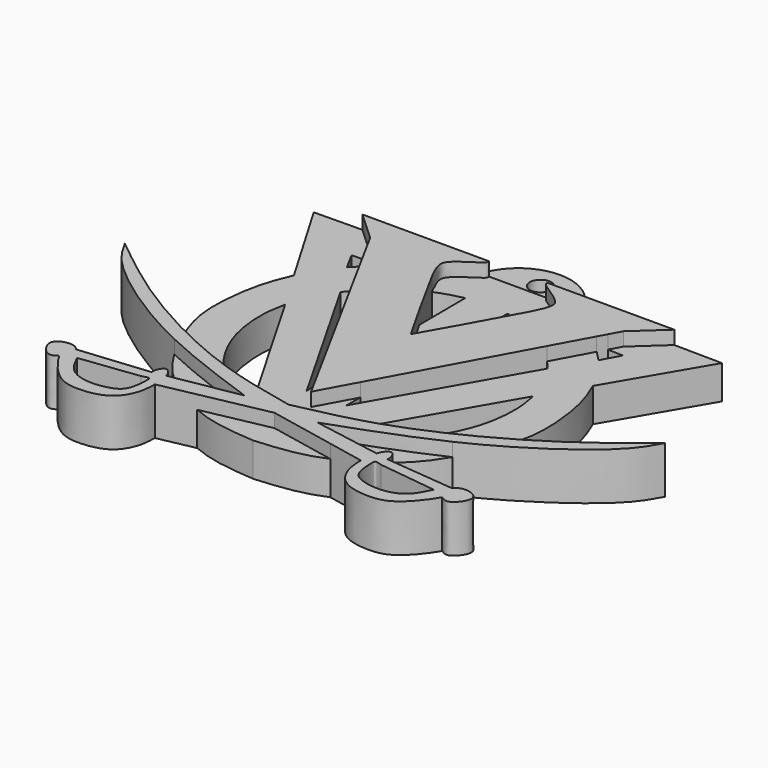
from build123d import *

# Parameters (mm, degrees)
F1_DEPTH = 7
F2_DEPTH = 5
F0_R     = 1.5875
F4_DEPTH = 3.5


with BuildPart() as f1:
    # F0 (on Top) → F1 (new body)
    with BuildSketch(Plane.XY):
        with BuildLine():
            Line((-9.8212097116, 10.4955457838), (-25.2164416015, 10.4955457838))
            Line((-25.2164416015, 10.4955457838), (-20.8612158895, 6.5103424713))
            Line((-20.8612158895, 6.5103424713), (-19.9256264635, 4.7948250641))
            Line((-19.9256264635, 4.7948250641), (-18.0247481912, 4.8423469998))
            Line((-18.0247481912, 4.8423469998), (-19.2591881553, 3.572829083))
            Line((-19.2591881553, 3.572829083), (-16.2846510978, -1.8813476733))
            add(Edge.make_bspline(
                [(-9.2160156942, 3.3641833615), (-10.5381233415, 2.8202589344), (-13.2069103444, 1.3493856489), (-15.236367988, -0.6858094985), (-16.2846510978, -1.8813476733)],
                knots=[0.2519653622, 0.2519653622, 0.2519653622, 0.2519653622, 0.5271052511, 0.8701034634, 0.8701034634, 0.8701034634, 0.8701034634], degree=3))
            add(Edge.make_bspline(
                [(-6.4267562702, 10.4955457838), (-6.4202038188, 10.3731220994), (-6.397345163, 9.9460390588), (-8.6548133041, 8.6784258445), (-10.4044391978, 7.2122151281), (-10.4504628712, 6.1336787998), (-9.9829013131, 4.8805384414), (-9.4426691991, 3.7981870311), (-9.2160156942, 3.3641833615)],
                knots=[0, 0, 0, 0, 0.0499071682, 0.1741044247, 0.2933986397, 0.3677891369, 0.4708419592, 0.5300373809, 0.5300373809, 0.5300373809, 0.5300373809], degree=3))
            Line((-6.4267562702, 10.4955457838), (-9.8212097116, 10.4955457838))
        make_face()
        with BuildLine():
            add(Edge.make_bspline(
                [(-9.2160156942, 3.3641833615), (-8.8014752301, 2.5704074932), (-7.6604002864, 0.5153622749), (-6.0214887465, -2.4703908038), (-5.1855017795, -3.9847525653)],
                knots=[0.5300373809, 0.5300373809, 0.5300373809, 0.5300373809, 0.6383035099, 0.7706694198, 0.7706694198, 0.7706694198, 0.7706694198], degree=3))
            add(Edge.make_bspline(
                [(-9.2160156942, 3.3641833615), (-10.5381233415, 2.8202589344), (-13.2069103444, 1.3493856489), (-15.236367988, -0.6858094985), (-16.2846510978, -1.8813476733)],
                knots=[0.2519653622, 0.2519653622, 0.2519653622, 0.2519653622, 0.5271052511, 0.8701034634, 0.8701034634, 0.8701034634, 0.8701034634], degree=3))
            Line((-16.2846510978, -1.8813476733), (-5.0672811139, -22.4497646908))
            Line((-5.0672811139, -22.4497646908), (-5.1855017795, -3.9847525653))
        make_face()
        with BuildLine():
            add(Edge.make_bspline(
                [(-5.1855017795, -3.9847525653), (-4.5729397997, -5.0943876139), (-3.2077528198, -7.5555607135), (-2.5147734928, -8.7314109355), (-2.1148733607, -9.4099631533)],
                knots=[0.7706694198, 0.7706694198, 0.7706694198, 0.7706694198, 0.8676593576, 1, 1, 1, 1], degree=3))
            Line((-5.1855017795, -3.9847525653), (-5.0672811139, -22.4497646908))
            Line((-5.0672811139, -22.4497646908), (-2.1148733607, -27.8633646667))
            Line((-2.1148733607, -27.8633646667), (0.8375343926, -22.4497646908))
            Line((0.8375343926, -22.4497646908), (0.9557550581, -3.9847525653))
            add(Edge.make_bspline(
                [(0.9557550581, -3.9847525653), (0.3431930784, -5.0943876139), (-1.0219939016, -7.5555607135), (-1.7149732285, -8.7314109355), (-2.1148733607, -9.4099631533)],
                knots=[0.7706694198, 0.7706694198, 0.7706694198, 0.7706694198, 0.8676593576, 1, 1, 1, 1], degree=3))
        make_face()
        with BuildLine():
            add(Edge.make_bspline(
                [(4.9862689729, 3.3641833615), (6.3083766201, 2.8202589344), (8.977163623, 1.3493856489), (11.0066212666, -0.6858094985), (12.0549043764, -1.8813476733)],
                knots=[0.2519653622, 0.2519653622, 0.2519653622, 0.2519653622, 0.5271052511, 0.8701034634, 0.8701034634, 0.8701034634, 0.8701034634], degree=3))
            add(Edge.make_bspline(
                [(4.9862689729, 3.3641833615), (4.5717285087, 2.5704074932), (3.430653565, 0.5153622749), (1.7917420251, -2.4703908038), (0.9557550581, -3.9847525653)],
                knots=[0.5300373809, 0.5300373809, 0.5300373809, 0.5300373809, 0.6383035099, 0.7706694198, 0.7706694198, 0.7706694198, 0.7706694198], degree=3))
            Line((0.9557550581, -3.9847525653), (0.8375343926, -22.4497646908))
            Line((0.8375343926, -22.4497646908), (12.0549043764, -1.8813476733))
        make_face()
        with BuildLine():
            Line((20.9866948802, 10.4955457838), (5.5914629902, 10.4955457838))
            Line((5.5914629902, 10.4955457838), (2.1970095489, 10.4955457838))
            add(Edge.make_bspline(
                [(2.1970095489, 10.4955457838), (2.1904570975, 10.3731220994), (2.1675984416, 9.9460390588), (4.4250665827, 8.6784258445), (6.1746924764, 7.2122151281), (6.2207161499, 6.1336787998), (5.7531545918, 4.8805384414), (5.2129224778, 3.7981870311), (4.9862689729, 3.3641833615)],
                knots=[0, 0, 0, 0, 0.0499071682, 0.1741044247, 0.2933986397, 0.3677891369, 0.4708419592, 0.5300373809, 0.5300373809, 0.5300373809, 0.5300373809], degree=3))
            add(Edge.make_bspline(
                [(4.9862689729, 3.3641833615), (6.3083766201, 2.8202589344), (8.977163623, 1.3493856489), (11.0066212666, -0.6858094985), (12.0549043764, -1.8813476733)],
                knots=[0.2519653622, 0.2519653622, 0.2519653622, 0.2519653622, 0.5271052511, 0.8701034634, 0.8701034634, 0.8701034634, 0.8701034634], degree=3))
            Line((12.0549043764, -1.8813476733), (15.029441434, 3.572829083))
            Line((15.029441434, 3.572829083), (13.7950014699, 4.8423469998))
            Line((13.7950014699, 4.8423469998), (15.6958797421, 4.7948250641))
            Line((15.6958797421, 4.7948250641), (16.6314691681, 6.5103424713))
            Line((16.6314691681, 6.5103424713), (20.9866948802, 10.4955457838))
        make_face()
        Polygon((-18.0247481912, 4.8423469998), (-19.9256264635, 4.7948250641), (-19.2591881553, 3.572829083), align=None)
        Polygon((15.029441434, 3.572829083), (15.6958797421, 4.7948250641), (13.7950014699, 4.8423469998), align=None)
    extrude(amount=F1_DEPTH)



with BuildPart() as f1b:
    # F0 (on Top) → F1, piece 2 (new body)
    with BuildSketch(Plane.XY):
        with BuildLine():
            add(Edge.make_bspline(
                [(20.0382902202, -24.4729259219), (22.4144782798, -23.236456693), (29.3360092111, -19.2365320952), (34.4664263238, -15.0972706569), (37.8851266393, -12.3390359804)],
                knots=[0.5201036871, 0.5201036871, 0.5201036871, 0.5201036871, 0.6802167075, 1, 1, 1, 1], degree=3))
            add(Edge.make_bspline(
                [(20.0382902202, -24.4729259219), (19.5649829768, -25.4799732602), (19.0364333286, -26.4913374199), (18.4742518691, -27.4424357322)],
                knots=[0.4604312135, 0.4604312135, 0.4604312135, 0.4604312135, 0.5182797636, 0.5182797636, 0.5182797636, 0.5182797636], degree=3))
            add(Edge.make_bspline(
                [(37.8851266393, -12.3390359804), (37.1969494736, -13.604248622), (35.2677384354, -17.1511000949), (26.1775285235, -23.6161593843), (19.6169061289, -26.9020118049), (18.4742518691, -27.4424357322)],
                knots=[0, 0, 0, 0, 0.2076318452, 0.5820676238, 0.6603691268, 0.6603691268, 0.6603691268, 0.6603691268], degree=3))
        make_face()
        with BuildLine():
            add(Edge.make_bspline(
                [(-13.2796532389, -29.1946541665), (-13.8982236008, -28.9909128153), (-17.4523709043, -27.759076796), (-21.2479599563, -26.0444481111), (-24.2680369416, -24.4729259219)],
                knots=[0.2731815808, 0.2731815808, 0.2731815808, 0.2731815808, 0.3166039489, 0.5201036871, 0.5201036871, 0.5201036871, 0.5201036871], degree=3))
            add(Edge.make_bspline(
                [(-24.2680369416, -24.4729259219), (-23.7947296981, -25.4799732602), (-23.26618005, -26.4913374199), (-22.7039985904, -27.4424357322)],
                knots=[0.4604312135, 0.4604312135, 0.4604312135, 0.4604312135, 0.5182797636, 0.5182797636, 0.5182797636, 0.5182797636], degree=3))
            add(Edge.make_bspline(
                [(-22.7039985904, -27.4424357322), (-17.747763406, -29.7865114315), (-12.6412808204, -31.6062770388), (-7.5347982347, -33.4260426462)],
                knots=[0.6603691268, 0.6603691268, 0.6603691268, 0.6603691268, 1, 1, 1, 1], degree=3))
            add(Edge.make_bspline(
                [(-7.5347982347, -33.4260426462), (-10.1567537795, -33.8853627136), (-12.7787093243, -34.3446827811), (-15.4006648691, -34.8040028486)],
                knots=[0, 0, 0, 0, 7.9856516471, 7.9856516471, 7.9856516471, 7.9856516471], degree=3))
            add(Edge.make_bspline(
                [(-15.4006648691, -34.8040028486), (-14.3253828069, -35.4724072409), (-13.1688253657, -36.0973945033), (-11.9637181546, -36.6191182357)],
                knots=[0.7286996638, 0.7286996638, 0.7286996638, 0.7286996638, 0.80462666, 0.80462666, 0.80462666, 0.80462666], degree=3))
            Line((-11.9637181546, -36.6191182357), (-2.1148733607, -34.6288941801))
            Line((-2.1148733607, -34.6288941801), (7.7339714333, -36.6191182357))
            add(Edge.make_bspline(
                [(11.1709181477, -34.8040028486), (10.0956360856, -35.4724072409), (8.9390786443, -36.0973945033), (7.7339714333, -36.6191182357)],
                knots=[0.7286996638, 0.7286996638, 0.7286996638, 0.7286996638, 0.80462666, 0.80462666, 0.80462666, 0.80462666], degree=3))
            add(Edge.make_bspline(
                [(3.3050515133, -33.4260426462), (5.9270070581, -33.8853627136), (8.5489626029, -34.3446827811), (11.1709181477, -34.8040028486)],
                knots=[0, 0, 0, 0, 7.9856516471, 7.9856516471, 7.9856516471, 7.9856516471], degree=3))
            add(Edge.make_bspline(
                [(18.4742518691, -27.4424357322), (13.5180166847, -29.7865114315), (8.411534099, -31.6062770388), (3.3050515133, -33.4260426462)],
                knots=[0.6603691268, 0.6603691268, 0.6603691268, 0.6603691268, 1, 1, 1, 1], degree=3))
            add(Edge.make_bspline(
                [(20.0382902202, -24.4729259219), (19.5649829768, -25.4799732602), (19.0364333286, -26.4913374199), (18.4742518691, -27.4424357322)],
                knots=[0.4604312135, 0.4604312135, 0.4604312135, 0.4604312135, 0.5182797636, 0.5182797636, 0.5182797636, 0.5182797636], degree=3))
            add(Edge.make_bspline(
                [(9.0499065176, -29.1946541665), (9.6684768794, -28.9909128153), (13.222624183, -27.759076796), (17.018213235, -26.0444481111), (20.0382902202, -24.4729259219)],
                knots=[0.2731815808, 0.2731815808, 0.2731815808, 0.2731815808, 0.3166039489, 0.5201036871, 0.5201036871, 0.5201036871, 0.5201036871], degree=3))
            add(Edge.make_bspline(
                [(9.0499065176, -29.1946541665), (8.4596211069, -29.6533029931), (6.5118522195, -30.9944684492), (4.6289918249, -31.645675619), (3.3313073594, -32.0944935083)],
                knots=[0.7694753869, 0.7694753869, 0.7694753869, 0.7694753869, 0.8411203453, 1, 1, 1, 1], degree=3))
            Line((3.3313073594, -32.0944935083), (4.1971262506, -30.5942083124))
            add(Edge.make_bspline(
                [(-2.1148733607, -32.0202410221), (-0.0269599922, -31.5770637376), (2.0609533763, -31.1338864531), (4.1971262506, -30.5942083124)],
                knots=[0, 0, 0, 0, 0.1568443668, 0.1568443668, 0.1568443668, 0.1568443668], degree=3))
            add(Edge.make_bspline(
                [(-2.1148733607, -32.0202410221), (-4.2027867292, -31.5770637376), (-6.2907000977, -31.1338864531), (-8.426872972, -30.5942083124)],
                knots=[0, 0, 0, 0, 0.1568443668, 0.1568443668, 0.1568443668, 0.1568443668], degree=3))
            Line((-8.426872972, -30.5942083124), (-7.5610540807, -32.0944935083))
            add(Edge.make_bspline(
                [(-13.2796532389, -29.1946541665), (-12.6893678283, -29.6533029931), (-10.7415989409, -30.9944684492), (-8.8587385463, -31.645675619), (-7.5610540807, -32.0944935083)],
                knots=[0.7694753869, 0.7694753869, 0.7694753869, 0.7694753869, 0.8411203453, 1, 1, 1, 1], degree=3))
        make_face()
        with BuildLine():
            add(Edge.make_bspline(
                [(-8.426872972, -30.5942083124), (-10.0113506668, -30.1939092605), (-11.6223794506, -29.7405180192), (-13.2796532389, -29.1946541665)],
                knots=[0.1568443668, 0.1568443668, 0.1568443668, 0.1568443668, 0.2731815808, 0.2731815808, 0.2731815808, 0.2731815808], degree=3))
            add(Edge.make_bspline(
                [(-13.2796532389, -29.1946541665), (-12.6893678283, -29.6533029931), (-10.7415989409, -30.9944684492), (-8.8587385463, -31.645675619), (-7.5610540807, -32.0944935083)],
                knots=[0.7694753869, 0.7694753869, 0.7694753869, 0.7694753869, 0.8411203453, 1, 1, 1, 1], degree=3))
            Line((-7.5610540807, -32.0944935083), (-8.426872972, -30.5942083124))
        make_face()
        with BuildLine():
            add(Edge.make_bspline(
                [(9.0499065176, -29.1946541665), (8.4596211069, -29.6533029931), (6.5118522195, -30.9944684492), (4.6289918249, -31.645675619), (3.3313073594, -32.0944935083)],
                knots=[0.7694753869, 0.7694753869, 0.7694753869, 0.7694753869, 0.8411203453, 1, 1, 1, 1], degree=3))
            add(Edge.make_bspline(
                [(4.1971262506, -30.5942083124), (5.7816039454, -30.1939092605), (7.3926327292, -29.7405180192), (9.0499065176, -29.1946541665)],
                knots=[0.1568443668, 0.1568443668, 0.1568443668, 0.1568443668, 0.2731815808, 0.2731815808, 0.2731815808, 0.2731815808], degree=3))
            Line((4.1971262506, -30.5942083124), (3.3313073594, -32.0944935083))
        make_face()
        with BuildLine():
            add(Edge.make_bspline(
                [(-15.4006648691, -34.8040028486), (-14.3253828069, -35.4724072409), (-13.1688253657, -36.0973945033), (-11.9637181546, -36.6191182357)],
                knots=[0.7286996638, 0.7286996638, 0.7286996638, 0.7286996638, 0.80462666, 0.80462666, 0.80462666, 0.80462666], degree=3))
            add(Edge.make_bspline(
                [(-15.4006648691, -34.8040028486), (-16.1575625261, -34.9365978819), (-16.9144601832, -35.0691929153), (-17.6713578403, -35.2017879486)],
                knots=[7.9856516471, 7.9856516471, 7.9856516471, 7.9856516471, 10.2909237689, 10.2909237689, 10.2909237689, 10.2909237689], degree=3))
            add(Edge.make_bspline(
                [(-17.6713578403, -35.2017879486), (-17.7990934919, -34.8762857779), (-18.0394773008, -34.2637281196), (-18.9480893053, -33.598040226), (-19.6238263959, -34.8320555115), (-19.591233676, -35.3296324234), (-19.5765867829, -35.5532392859)],
                knots=[0, 0, 0, 0, 0.2660118401, 0.5006036966, 0.7755755182, 1, 1, 1, 1], degree=3))
            add(Edge.make_bspline(
                [(-19.5765867829, -35.5532392859), (-23.0300767968, -35.8903755744), (-26.4835668107, -36.2275118629), (-29.9370568246, -36.5646481514)],
                knots=[0, 0, 0, 0, 10.4097208117, 10.4097208117, 10.4097208117, 10.4097208117], degree=3))
            add(Edge.make_bspline(
                [(-29.9370568246, -36.5646481514), (-30.1454735796, -36.3410022108), (-30.6279819735, -35.8232365272), (-32.3749163102, -35.8430017384), (-33.7153747232, -36.9836672536), (-32.7806038349, -38.8103374477), (-31.4968762964, -39.7290337616), (-30.7948865054, -39.2523502791), (-30.4649900645, -39.0283353627)],
                knots=[0, 0, 0, 0, 0.1382522584, 0.3200696372, 0.4905118357, 0.6815277369, 0.850335621, 1, 1, 1, 1], degree=3))
            add(Edge.make_bspline(
                [(-30.4649900645, -39.0283353627), (-30.1735159193, -39.5271828225), (-29.4727132326, -40.7265812796), (-26.7914706881, -43.7272510553), (-23.6632365523, -44.3462614354), (-19.2338343401, -43.6618041975), (-17.4479297587, -40.3210720919), (-17.3842102265, -38.5363070197), (-17.3546560109, -37.7085022628)],
                knots=[0, 0, 0, 0, 0.1310810068, 0.3151631912, 0.4829556915, 0.6746605183, 0.8491019492, 1, 1, 1, 1], degree=3))
            Line((-17.3546560109, -37.7085022628), (-11.9637181546, -36.6191182357))
        make_face()
        with BuildLine():
            add(Edge.make_bspline(
                [(-28.5349115729, -38.1658375263), (-28.0401910215, -39.1751687384), (-27.0562361831, -41.1826380598), (-23.8474678696, -42.2521870491), (-20.5701538133, -41.7116054381), (-18.8833311774, -40.5336372695), (-18.7013236199, -37.5632097247), (-18.7571201413, -36.7252806065), (-19.4707790583, -36.959368249), (-19.878141582, -37.092987448)],
                knots=[0, 0, 0, 0, 0.176180541, 0.3504073062, 0.5260487872, 0.6616289318, 0.8269639372, 0.9012295572, 1, 1, 1, 1], degree=3))
            add(Edge.make_bspline(
                [(-28.5349115729, -38.1658375263), (-25.649321576, -37.8082208335), (-22.763731579, -37.4506041408), (-19.878141582, -37.092987448)],
                knots=[0, 0, 0, 0, 8.7229968455, 8.7229968455, 8.7229968455, 8.7229968455], degree=3))
        make_face(mode=Mode.SUBTRACT)
        with BuildLine():
            add(Edge.make_bspline(
                [(11.1709181477, -34.8040028486), (11.9278158048, -34.9365978819), (12.6847134619, -35.0691929153), (13.4416111189, -35.2017879486)],
                knots=[7.9856516471, 7.9856516471, 7.9856516471, 7.9856516471, 10.2909237689, 10.2909237689, 10.2909237689, 10.2909237689], degree=3))
            add(Edge.make_bspline(
                [(11.1709181477, -34.8040028486), (10.0956360856, -35.4724072409), (8.9390786443, -36.0973945033), (7.7339714333, -36.6191182357)],
                knots=[0.7286996638, 0.7286996638, 0.7286996638, 0.7286996638, 0.80462666, 0.80462666, 0.80462666, 0.80462666], degree=3))
            Line((7.7339714333, -36.6191182357), (13.1249092895, -37.7085022628))
            add(Edge.make_bspline(
                [(26.2352433431, -39.0283353627), (25.9437691979, -39.5271828225), (25.2429665112, -40.7265812796), (22.5617239667, -43.7272510553), (19.4334898309, -44.3462614354), (15.0040876188, -43.6618041975), (13.2181830373, -40.3210720919), (13.1544635051, -38.5363070197), (13.1249092895, -37.7085022628)],
                knots=[0, 0, 0, 0, 0.1310810068, 0.3151631912, 0.4829556915, 0.6746605183, 0.8491019492, 1, 1, 1, 1], degree=3))
            add(Edge.make_bspline(
                [(25.7073101032, -36.5646481514), (25.9157268582, -36.3410022108), (26.3982352521, -35.8232365272), (28.1451695888, -35.8430017384), (29.4856280019, -36.9836672536), (28.5508571136, -38.8103374477), (27.267129575, -39.7290337616), (26.5651397841, -39.2523502791), (26.2352433431, -39.0283353627)],
                knots=[0, 0, 0, 0, 0.1382522584, 0.3200696372, 0.4905118357, 0.6815277369, 0.850335621, 1, 1, 1, 1], degree=3))
            add(Edge.make_bspline(
                [(15.3468400616, -35.5532392859), (18.8003300754, -35.8903755744), (22.2538200893, -36.2275118629), (25.7073101032, -36.5646481514)],
                knots=[0, 0, 0, 0, 10.4097208117, 10.4097208117, 10.4097208117, 10.4097208117], degree=3))
            add(Edge.make_bspline(
                [(13.4416111189, -35.2017879486), (13.5693467705, -34.8762857779), (13.8097305794, -34.2637281196), (14.7183425839, -33.598040226), (15.3940796745, -34.8320555115), (15.3614869546, -35.3296324234), (15.3468400616, -35.5532392859)],
                knots=[0, 0, 0, 0, 0.2660118401, 0.5006036966, 0.7755755182, 1, 1, 1, 1], degree=3))
        make_face()
        with BuildLine():
            add(Edge.make_bspline(
                [(24.3051648516, -38.1658375263), (21.4195748546, -37.8082208335), (18.5339848576, -37.4506041408), (15.6483948606, -37.092987448)],
                knots=[0, 0, 0, 0, 8.7229968455, 8.7229968455, 8.7229968455, 8.7229968455], degree=3))
            add(Edge.make_bspline(
                [(24.3051648516, -38.1658375263), (23.8104443002, -39.1751687384), (22.8264894618, -41.1826380598), (19.6177211482, -42.2521870491), (16.3404070919, -41.7116054381), (14.653584456, -40.5336372695), (14.4715768986, -37.5632097247), (14.52737342, -36.7252806065), (15.241032337, -36.959368249), (15.6483948606, -37.092987448)],
                knots=[0, 0, 0, 0, 0.176180541, 0.3504073062, 0.5260487872, 0.6616289318, 0.8269639372, 0.9012295572, 1, 1, 1, 1], degree=3))
        make_face(mode=Mode.SUBTRACT)
        with BuildLine():
            add(Edge.make_bspline(
                [(-24.2680369416, -24.4729259219), (-23.7947296981, -25.4799732602), (-23.26618005, -26.4913374199), (-22.7039985904, -27.4424357322)],
                knots=[0.4604312135, 0.4604312135, 0.4604312135, 0.4604312135, 0.5182797636, 0.5182797636, 0.5182797636, 0.5182797636], degree=3))
            add(Edge.make_bspline(
                [(-24.2680369416, -24.4729259219), (-26.6442250011, -23.236456693), (-33.5657559325, -19.2365320952), (-38.6961730452, -15.0972706569), (-42.1148733607, -12.3390359804)],
                knots=[0.5201036871, 0.5201036871, 0.5201036871, 0.5201036871, 0.6802167075, 1, 1, 1, 1], degree=3))
            add(Edge.make_bspline(
                [(-42.1148733607, -12.3390359804), (-41.426696195, -13.604248622), (-39.4974851568, -17.1511000949), (-30.4072752449, -23.6161593843), (-23.8466528502, -26.9020118049), (-22.7039985904, -27.4424357322)],
                knots=[0, 0, 0, 0, 0.2076318452, 0.5820676238, 0.6603691268, 0.6603691268, 0.6603691268, 0.6603691268], degree=3))
        make_face()
    extrude(amount=F1_DEPTH)


with BuildPart() as f1_1:
    add(f1.part)

    add(f1b.part)  # F2 merges F1b
    # F0 (on Top) → F2 (join)
    with BuildSketch(Plane.XY):
        with BuildLine():
            Line((20.9866948802, 10.4955457838), (5.5914629902, 10.4955457838))
            Line((5.5914629902, 10.4955457838), (2.1970095489, 10.4955457838))
            add(Edge.make_bspline(
                [(2.1970095489, 10.4955457838), (2.1904570975, 10.3731220994), (2.1675984416, 9.9460390588), (4.4250665827, 8.6784258445), (6.1746924764, 7.2122151281), (6.2207161499, 6.1336787998), (5.7531545918, 4.8805384414), (5.2129224778, 3.7981870311), (4.9862689729, 3.3641833615)],
                knots=[0, 0, 0, 0, 0.0499071682, 0.1741044247, 0.2933986397, 0.3677891369, 0.4708419592, 0.5300373809, 0.5300373809, 0.5300373809, 0.5300373809], degree=3))
            add(Edge.make_bspline(
                [(4.9862689729, 3.3641833615), (6.3083766201, 2.8202589344), (8.977163623, 1.3493856489), (11.0066212666, -0.6858094985), (12.0549043764, -1.8813476733)],
                knots=[0.2519653622, 0.2519653622, 0.2519653622, 0.2519653622, 0.5271052511, 0.8701034634, 0.8701034634, 0.8701034634, 0.8701034634], degree=3))
            Line((12.0549043764, -1.8813476733), (15.029441434, 3.572829083))
            Line((15.029441434, 3.572829083), (13.7950014699, 4.8423469998))
            Line((13.7950014699, 4.8423469998), (15.6958797421, 4.7948250641))
            Line((15.6958797421, 4.7948250641), (16.6314691681, 6.5103424713))
            Line((16.6314691681, 6.5103424713), (20.9866948802, 10.4955457838))
        make_face()
        with BuildLine():
            Line((-20.8612158895, 6.5103424713), (-25.2164416015, 10.4955457838))
            Line((-25.2164416015, 10.4955457838), (-32.3334602878, 10.4031153023))
            Line((-32.3334602878, 10.4031153023), (-24.2506489158, -3.3716561738))
            add(Edge.make_bspline(
                [(-24.2506489158, -3.3716561738), (-24.8150804956, -4.6966014929), (-26.099162494, -7.7108524559), (-27.0683153483, -15.5218985719), (-26.1689843632, -20.0241994161), (-24.7685108614, -23.4080765333), (-24.2680369416, -24.4729259219)],
                knots=[0, 0, 0, 0, 0.1165554266, 0.2651636273, 0.3992622982, 0.4604312135, 0.4604312135, 0.4604312135, 0.4604312135], degree=3))
            add(Edge.make_bspline(
                [(-13.2796532389, -29.1946541665), (-13.8982236008, -28.9909128153), (-17.4523709043, -27.759076796), (-21.2479599563, -26.0444481111), (-24.2680369416, -24.4729259219)],
                knots=[0.2731815808, 0.2731815808, 0.2731815808, 0.2731815808, 0.3166039489, 0.5201036871, 0.5201036871, 0.5201036871, 0.5201036871], degree=3))
            add(Edge.make_bspline(
                [(-20.4837173223, -9.7021888942), (-20.6889774086, -10.7504888207), (-21.1475247257, -13.0923718799), (-20.7373316419, -18.2956623647), (-18.8078277747, -23.0449161063), (-16.4050481463, -26.4435386431), (-14.1909626126, -28.4865713181), (-13.2796532389, -29.1946541665)],
                knots=[0, 0, 0, 0, 0.141447517, 0.3159911925, 0.489722735, 0.6588666525, 0.7694753869, 0.7694753869, 0.7694753869, 0.7694753869], degree=3))
            Line((-20.4837173223, -9.7021888942), (-8.426872972, -30.5942083124))
            add(Edge.make_bspline(
                [(-2.1148733607, -32.0202410221), (-4.2027867292, -31.5770637376), (-6.2907000977, -31.1338864531), (-8.426872972, -30.5942083124)],
                knots=[0, 0, 0, 0, 0.1568443668, 0.1568443668, 0.1568443668, 0.1568443668], degree=3))
            add(Edge.make_bspline(
                [(-2.1148733607, -32.0202410221), (-0.0269599922, -31.5770637376), (2.0609533763, -31.1338864531), (4.1971262506, -30.5942083124)],
                knots=[0, 0, 0, 0, 0.1568443668, 0.1568443668, 0.1568443668, 0.1568443668], degree=3))
            Line((4.1971262506, -30.5942083124), (16.253970601, -9.7021888942))
            add(Edge.make_bspline(
                [(16.253970601, -9.7021888942), (16.4592306873, -10.7504888207), (16.9177780043, -13.0923718799), (16.5075849205, -18.2956623647), (14.5780810533, -23.0449161063), (12.175301425, -26.4435386431), (9.9612158913, -28.4865713181), (9.0499065176, -29.1946541665)],
                knots=[0, 0, 0, 0, 0.141447517, 0.3159911925, 0.489722735, 0.6588666525, 0.7694753869, 0.7694753869, 0.7694753869, 0.7694753869], degree=3))
            add(Edge.make_bspline(
                [(9.0499065176, -29.1946541665), (9.6684768794, -28.9909128153), (13.222624183, -27.759076796), (17.018213235, -26.0444481111), (20.0382902202, -24.4729259219)],
                knots=[0.2731815808, 0.2731815808, 0.2731815808, 0.2731815808, 0.3166039489, 0.5201036871, 0.5201036871, 0.5201036871, 0.5201036871], degree=3))
            add(Edge.make_bspline(
                [(20.0209021944, -3.3716561738), (20.5853337742, -4.6966014929), (21.8694157726, -7.7108524559), (22.8385686269, -15.5218985719), (21.9392376418, -20.0241994161), (20.5387641401, -23.4080765333), (20.0382902202, -24.4729259219)],
                knots=[0, 0, 0, 0, 0.1165554266, 0.2651636273, 0.3992622982, 0.4604312135, 0.4604312135, 0.4604312135, 0.4604312135], degree=3))
            Line((20.0209021944, -3.3716561738), (28.1037135664, 10.4031153023))
            Line((28.1037135664, 10.4031153023), (20.9866948802, 10.4955457838))
            Line((20.9866948802, 10.4955457838), (16.6314691681, 6.5103424713))
            Line((16.6314691681, 6.5103424713), (15.6958797421, 4.7948250641))
            Line((15.6958797421, 4.7948250641), (17.9804787415, 4.7377101146))
            Line((17.9804787415, 4.7377101146), (16.513071579, 2.0470399756))
            Line((16.513071579, 2.0470399756), (15.029441434, 3.572829083))
            Line((15.029441434, 3.572829083), (12.0549043764, -1.8813476733))
            add(Edge.make_bspline(
                [(12.0549043764, -1.8813476733), (12.4518987059, -2.3341088326), (12.8377290063, -2.7963687623), (13.2188592482, -3.2622872386)],
                knots=[0.8701034634, 0.8701034634, 0.8701034634, 0.8701034634, 1, 1, 1, 1], degree=3))
            Line((13.2188592482, -3.2622872386), (0.8211820762, -25.0038504601))
            Line((0.8211820762, -25.0038504601), (0.8375343926, -22.4497646908))
            Line((0.8375343926, -22.4497646908), (-2.1148733607, -27.8633646667))
            Line((-2.1148733607, -27.8633646667), (-5.0672811139, -22.4497646908))
            Line((-5.0672811139, -22.4497646908), (-5.0509287976, -25.0038504601))
            Line((-5.0509287976, -25.0038504601), (-17.4486059695, -3.2622872386))
            add(Edge.make_bspline(
                [(-16.2846510978, -1.8813476733), (-16.6816454273, -2.3341088326), (-17.0674757276, -2.7963687623), (-17.4486059695, -3.2622872386)],
                knots=[0.8701034634, 0.8701034634, 0.8701034634, 0.8701034634, 1, 1, 1, 1], degree=3))
            Line((-16.2846510978, -1.8813476733), (-19.2591881553, 3.572829083))
            Line((-19.2591881553, 3.572829083), (-20.7428183004, 2.0470399756))
            Line((-20.7428183004, 2.0470399756), (-22.2102254629, 4.7377101146))
            Line((-22.2102254629, 4.7377101146), (-19.9256264635, 4.7948250641))
            Line((-19.9256264635, 4.7948250641), (-20.8612158895, 6.5103424713))
        make_face()
        with BuildLine():
            Line((-2.1148733607, 10.4955457838), (-6.4267562702, 10.4955457838))
            add(Edge.make_bspline(
                [(-6.4267562702, 10.4955457838), (-6.4202038188, 10.3731220994), (-6.397345163, 9.9460390588), (-8.6548133041, 8.6784258445), (-10.4044391978, 7.2122151281), (-10.4504628712, 6.1336787998), (-9.9829013131, 4.8805384414), (-9.4426691991, 3.7981870311), (-9.2160156942, 3.3641833615)],
                knots=[0, 0, 0, 0, 0.0499071682, 0.1741044247, 0.2933986397, 0.3677891369, 0.4708419592, 0.5300373809, 0.5300373809, 0.5300373809, 0.5300373809], degree=3))
            add(Edge.make_bspline(
                [(-5.2403407171, 4.5805997215), (-6.6819709105, 4.267502878), (-8.0052667424, 3.8622940345), (-9.2160156942, 3.3641833615)],
                knots=[0, 0, 0, 0, 0.2519653622, 0.2519653622, 0.2519653622, 0.2519653622], degree=3))
            Line((-5.2403407171, 4.5805997215), (-5.1855017795, -3.9847525653))
            add(Edge.make_bspline(
                [(-5.1855017795, -3.9847525653), (-4.5729397997, -5.0943876139), (-3.2077528198, -7.5555607135), (-2.5147734928, -8.7314109355), (-2.1148733607, -9.4099631533)],
                knots=[0.7706694198, 0.7706694198, 0.7706694198, 0.7706694198, 0.8676593576, 1, 1, 1, 1], degree=3))
            add(Edge.make_bspline(
                [(0.9557550581, -3.9847525653), (0.3431930784, -5.0943876139), (-1.0219939016, -7.5555607135), (-1.7149732285, -8.7314109355), (-2.1148733607, -9.4099631533)],
                knots=[0.7706694198, 0.7706694198, 0.7706694198, 0.7706694198, 0.8676593576, 1, 1, 1, 1], degree=3))
            Line((0.9557550581, -3.9847525653), (1.0105939958, 4.5805997215))
            add(Edge.make_bspline(
                [(1.0105939958, 4.5805997215), (2.4522241891, 4.267502878), (3.7755200211, 3.8622940345), (4.9862689729, 3.3641833615)],
                knots=[0, 0, 0, 0, 0.2519653622, 0.2519653622, 0.2519653622, 0.2519653622], degree=3))
            add(Edge.make_bspline(
                [(2.1970095489, 10.4955457838), (2.1904570975, 10.3731220994), (2.1675984416, 9.9460390588), (4.4250665827, 8.6784258445), (6.1746924764, 7.2122151281), (6.2207161499, 6.1336787998), (5.7531545918, 4.8805384414), (5.2129224778, 3.7981870311), (4.9862689729, 3.3641833615)],
                knots=[0, 0, 0, 0, 0.0499071682, 0.1741044247, 0.2933986397, 0.3677891369, 0.4708419592, 0.5300373809, 0.5300373809, 0.5300373809, 0.5300373809], degree=3))
            Line((2.1970095489, 10.4955457838), (-2.1148733607, 10.4955457838))
        make_face()
        with BuildLine():
            add(Edge.make_bspline(
                [(-5.1855017795, -3.9847525653), (-4.5729397997, -5.0943876139), (-3.2077528198, -7.5555607135), (-2.5147734928, -8.7314109355), (-2.1148733607, -9.4099631533)],
                knots=[0.7706694198, 0.7706694198, 0.7706694198, 0.7706694198, 0.8676593576, 1, 1, 1, 1], degree=3))
            Line((-5.1855017795, -3.9847525653), (-5.0672811139, -22.4497646908))
            Line((-5.0672811139, -22.4497646908), (-2.1148733607, -27.8633646667))
            Line((-2.1148733607, -27.8633646667), (0.8375343926, -22.4497646908))
            Line((0.8375343926, -22.4497646908), (0.9557550581, -3.9847525653))
            add(Edge.make_bspline(
                [(0.9557550581, -3.9847525653), (0.3431930784, -5.0943876139), (-1.0219939016, -7.5555607135), (-1.7149732285, -8.7314109355), (-2.1148733607, -9.4099631533)],
                knots=[0.7706694198, 0.7706694198, 0.7706694198, 0.7706694198, 0.8676593576, 1, 1, 1, 1], degree=3))
        make_face()
        with BuildLine():
            Line((-2.1148733607, -34.6288941801), (-11.9637181546, -36.6191182357))
            add(Edge.make_bspline(
                [(-11.9637181546, -36.6191182357), (-11.2436299679, -36.9308640232), (-8.0680322744, -38.1145769616), (-4.7004507623, -38.3777839305), (-2.1148733607, -38.5798702016)],
                knots=[0.80462666, 0.80462666, 0.80462666, 0.80462666, 0.849995348, 1, 1, 1, 1], degree=3))
            add(Edge.make_bspline(
                [(7.7339714333, -36.6191182357), (7.0138832465, -36.9308640232), (3.8382855531, -38.1145769616), (0.4707040409, -38.3777839305), (-2.1148733607, -38.5798702016)],
                knots=[0.80462666, 0.80462666, 0.80462666, 0.80462666, 0.849995348, 1, 1, 1, 1], degree=3))
            Line((7.7339714333, -36.6191182357), (-2.1148733607, -34.6288941801))
        make_face()
        with BuildLine():
            add(Edge.make_bspline(
                [(18.4742518691, -27.4424357322), (18.0468997836, -28.1654297768), (16.1813124076, -31.0389275215), (13.8447909934, -33.0692111176), (11.550474877, -34.5680671867), (11.1709181477, -34.8040028486)],
                knots=[0.5182797636, 0.5182797636, 0.5182797636, 0.5182797636, 0.5622543525, 0.7018986937, 0.7286996638, 0.7286996638, 0.7286996638, 0.7286996638], degree=3))
            add(Edge.make_bspline(
                [(18.4742518691, -27.4424357322), (13.5180166847, -29.7865114315), (8.411534099, -31.6062770388), (3.3050515133, -33.4260426462)],
                knots=[0.6603691268, 0.6603691268, 0.6603691268, 0.6603691268, 1, 1, 1, 1], degree=3))
            add(Edge.make_bspline(
                [(3.3050515133, -33.4260426462), (5.9270070581, -33.8853627136), (8.5489626029, -34.3446827811), (11.1709181477, -34.8040028486)],
                knots=[0, 0, 0, 0, 7.9856516471, 7.9856516471, 7.9856516471, 7.9856516471], degree=3))
        make_face()
        with BuildLine():
            add(Edge.make_bspline(
                [(-22.7039985904, -27.4424357322), (-17.747763406, -29.7865114315), (-12.6412808204, -31.6062770388), (-7.5347982347, -33.4260426462)],
                knots=[0.6603691268, 0.6603691268, 0.6603691268, 0.6603691268, 1, 1, 1, 1], degree=3))
            add(Edge.make_bspline(
                [(-22.7039985904, -27.4424357322), (-22.276646505, -28.1654297768), (-20.4110591289, -31.0389275215), (-18.0745377147, -33.0692111176), (-15.7802215983, -34.5680671867), (-15.4006648691, -34.8040028486)],
                knots=[0.5182797636, 0.5182797636, 0.5182797636, 0.5182797636, 0.5622543525, 0.7018986937, 0.7286996638, 0.7286996638, 0.7286996638, 0.7286996638], degree=3))
            add(Edge.make_bspline(
                [(-7.5347982347, -33.4260426462), (-10.1567537795, -33.8853627136), (-12.7787093243, -34.3446827811), (-15.4006648691, -34.8040028486)],
                knots=[0, 0, 0, 0, 7.9856516471, 7.9856516471, 7.9856516471, 7.9856516471], degree=3))
        make_face()
        with BuildLine():
            add(Edge.make_bspline(
                [(-13.2796532389, -29.1946541665), (-13.8982236008, -28.9909128153), (-17.4523709043, -27.759076796), (-21.2479599563, -26.0444481111), (-24.2680369416, -24.4729259219)],
                knots=[0.2731815808, 0.2731815808, 0.2731815808, 0.2731815808, 0.3166039489, 0.5201036871, 0.5201036871, 0.5201036871, 0.5201036871], degree=3))
            add(Edge.make_bspline(
                [(-24.2680369416, -24.4729259219), (-23.7947296981, -25.4799732602), (-23.26618005, -26.4913374199), (-22.7039985904, -27.4424357322)],
                knots=[0.4604312135, 0.4604312135, 0.4604312135, 0.4604312135, 0.5182797636, 0.5182797636, 0.5182797636, 0.5182797636], degree=3))
            add(Edge.make_bspline(
                [(-22.7039985904, -27.4424357322), (-17.747763406, -29.7865114315), (-12.6412808204, -31.6062770388), (-7.5347982347, -33.4260426462)],
                knots=[0.6603691268, 0.6603691268, 0.6603691268, 0.6603691268, 1, 1, 1, 1], degree=3))
            add(Edge.make_bspline(
                [(-7.5347982347, -33.4260426462), (-10.1567537795, -33.8853627136), (-12.7787093243, -34.3446827811), (-15.4006648691, -34.8040028486)],
                knots=[0, 0, 0, 0, 7.9856516471, 7.9856516471, 7.9856516471, 7.9856516471], degree=3))
            add(Edge.make_bspline(
                [(-15.4006648691, -34.8040028486), (-14.3253828069, -35.4724072409), (-13.1688253657, -36.0973945033), (-11.9637181546, -36.6191182357)],
                knots=[0.7286996638, 0.7286996638, 0.7286996638, 0.7286996638, 0.80462666, 0.80462666, 0.80462666, 0.80462666], degree=3))
            Line((-11.9637181546, -36.6191182357), (-2.1148733607, -34.6288941801))
            Line((-2.1148733607, -34.6288941801), (7.7339714333, -36.6191182357))
            add(Edge.make_bspline(
                [(11.1709181477, -34.8040028486), (10.0956360856, -35.4724072409), (8.9390786443, -36.0973945033), (7.7339714333, -36.6191182357)],
                knots=[0.7286996638, 0.7286996638, 0.7286996638, 0.7286996638, 0.80462666, 0.80462666, 0.80462666, 0.80462666], degree=3))
            add(Edge.make_bspline(
                [(3.3050515133, -33.4260426462), (5.9270070581, -33.8853627136), (8.5489626029, -34.3446827811), (11.1709181477, -34.8040028486)],
                knots=[0, 0, 0, 0, 7.9856516471, 7.9856516471, 7.9856516471, 7.9856516471], degree=3))
            add(Edge.make_bspline(
                [(18.4742518691, -27.4424357322), (13.5180166847, -29.7865114315), (8.411534099, -31.6062770388), (3.3050515133, -33.4260426462)],
                knots=[0.6603691268, 0.6603691268, 0.6603691268, 0.6603691268, 1, 1, 1, 1], degree=3))
            add(Edge.make_bspline(
                [(20.0382902202, -24.4729259219), (19.5649829768, -25.4799732602), (19.0364333286, -26.4913374199), (18.4742518691, -27.4424357322)],
                knots=[0.4604312135, 0.4604312135, 0.4604312135, 0.4604312135, 0.5182797636, 0.5182797636, 0.5182797636, 0.5182797636], degree=3))
            add(Edge.make_bspline(
                [(9.0499065176, -29.1946541665), (9.6684768794, -28.9909128153), (13.222624183, -27.759076796), (17.018213235, -26.0444481111), (20.0382902202, -24.4729259219)],
                knots=[0.2731815808, 0.2731815808, 0.2731815808, 0.2731815808, 0.3166039489, 0.5201036871, 0.5201036871, 0.5201036871, 0.5201036871], degree=3))
            add(Edge.make_bspline(
                [(9.0499065176, -29.1946541665), (8.4596211069, -29.6533029931), (6.5118522195, -30.9944684492), (4.6289918249, -31.645675619), (3.3313073594, -32.0944935083)],
                knots=[0.7694753869, 0.7694753869, 0.7694753869, 0.7694753869, 0.8411203453, 1, 1, 1, 1], degree=3))
            Line((3.3313073594, -32.0944935083), (4.1971262506, -30.5942083124))
            add(Edge.make_bspline(
                [(-2.1148733607, -32.0202410221), (-0.0269599922, -31.5770637376), (2.0609533763, -31.1338864531), (4.1971262506, -30.5942083124)],
                knots=[0, 0, 0, 0, 0.1568443668, 0.1568443668, 0.1568443668, 0.1568443668], degree=3))
            add(Edge.make_bspline(
                [(-2.1148733607, -32.0202410221), (-4.2027867292, -31.5770637376), (-6.2907000977, -31.1338864531), (-8.426872972, -30.5942083124)],
                knots=[0, 0, 0, 0, 0.1568443668, 0.1568443668, 0.1568443668, 0.1568443668], degree=3))
            Line((-8.426872972, -30.5942083124), (-7.5610540807, -32.0944935083))
            add(Edge.make_bspline(
                [(-13.2796532389, -29.1946541665), (-12.6893678283, -29.6533029931), (-10.7415989409, -30.9944684492), (-8.8587385463, -31.645675619), (-7.5610540807, -32.0944935083)],
                knots=[0.7694753869, 0.7694753869, 0.7694753869, 0.7694753869, 0.8411203453, 1, 1, 1, 1], degree=3))
        make_face()
        with BuildLine():
            Line((-9.8212097116, 10.4955457838), (-25.2164416015, 10.4955457838))
            Line((-25.2164416015, 10.4955457838), (-20.8612158895, 6.5103424713))
            Line((-20.8612158895, 6.5103424713), (-19.9256264635, 4.7948250641))
            Line((-19.9256264635, 4.7948250641), (-18.0247481912, 4.8423469998))
            Line((-18.0247481912, 4.8423469998), (-19.2591881553, 3.572829083))
            Line((-19.2591881553, 3.572829083), (-16.2846510978, -1.8813476733))
            add(Edge.make_bspline(
                [(-9.2160156942, 3.3641833615), (-10.5381233415, 2.8202589344), (-13.2069103444, 1.3493856489), (-15.236367988, -0.6858094985), (-16.2846510978, -1.8813476733)],
                knots=[0.2519653622, 0.2519653622, 0.2519653622, 0.2519653622, 0.5271052511, 0.8701034634, 0.8701034634, 0.8701034634, 0.8701034634], degree=3))
            add(Edge.make_bspline(
                [(-6.4267562702, 10.4955457838), (-6.4202038188, 10.3731220994), (-6.397345163, 9.9460390588), (-8.6548133041, 8.6784258445), (-10.4044391978, 7.2122151281), (-10.4504628712, 6.1336787998), (-9.9829013131, 4.8805384414), (-9.4426691991, 3.7981870311), (-9.2160156942, 3.3641833615)],
                knots=[0, 0, 0, 0, 0.0499071682, 0.1741044247, 0.2933986397, 0.3677891369, 0.4708419592, 0.5300373809, 0.5300373809, 0.5300373809, 0.5300373809], degree=3))
            Line((-6.4267562702, 10.4955457838), (-9.8212097116, 10.4955457838))
        make_face()
    extrude(amount=F2_DEPTH)

    # F0 (on Top) → F4 (join)
    with BuildSketch(Plane.XY):
        with BuildLine():
            ThreePointArc((5.5914629902, 10.4955457838), (-2.1148733607, 18.2018821347), (-9.8212097116, 10.4955457838))
            Line((-9.8212097116, 10.4955457838), (-6.4267562702, 10.4955457838))
            Line((-6.4267562702, 10.4955457838), (-2.1148733607, 10.4955457838))
            Line((-2.1148733607, 10.4955457838), (2.1970095489, 10.4955457838))
            Line((2.1970095489, 10.4955457838), (5.5914629902, 10.4955457838))
        make_face()
        with Locations((-2.1148733607, 14.6039454266)):
            Circle(F0_R, mode=Mode.SUBTRACT)
    extrude(amount=F4_DEPTH)


solid = f1_1.part
